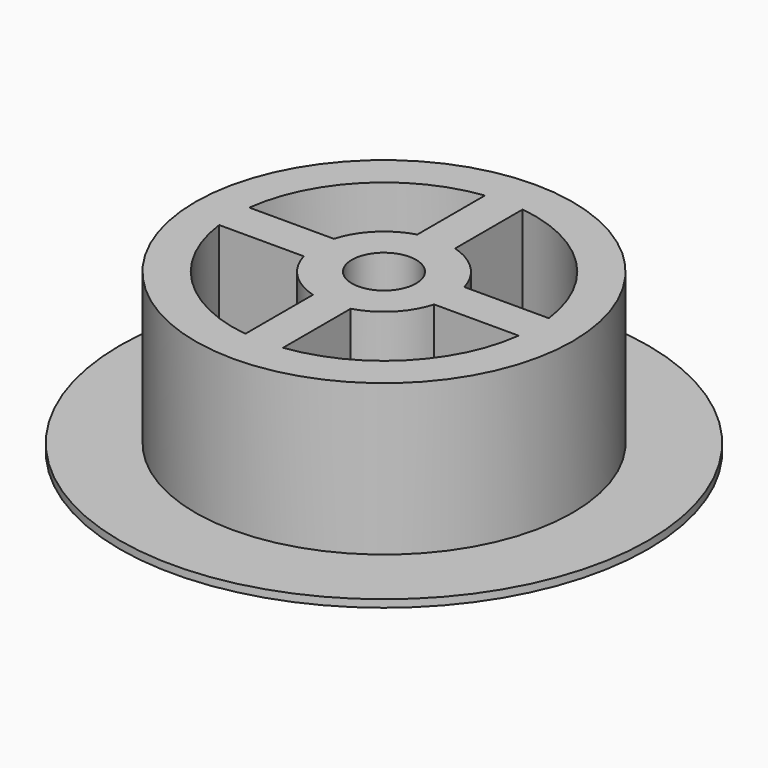
from build123d import *

# Parameters (mm, degrees)
F0_R     = 35
F1_DEPTH = 1
F2_R     = 25
F3_DEPTH = 20
F4_R     = 4.25
F5_DEPTH = 21


with BuildPart() as f1:
    # F0 (on Top) → F1 (new body)
    with BuildSketch(Plane.XY):
        Circle(F0_R)
    extrude(amount=F1_DEPTH)

    # F2 (on face) → F3 (join)
    with BuildSketch(Plane.XY.offset(1)):
        Circle(F2_R)
    extrude(amount=F3_DEPTH)

    # F4 (on face) → F5 (cut, through all)
    with BuildSketch(Plane.XY.offset(21)):
        with BuildLine():
            ThreePointArc((-19.843134833, -2.5), (-14.1421356237, -14.1421356237), (-2.5, -19.843134833))
            Line((-2.5, -19.843134833), (-2.5, -8.6458082329))
            ThreePointArc((-2.5, -8.6458082329), (-6.3639610307, -6.3639610307), (-8.6458082329, -2.5))
            Line((-8.6458082329, -2.5), (-19.843134833, -2.5))
        make_face()
        with BuildLine():
            Line((-2.5, 8.6458082329), (-2.5, 19.843134833))
            ThreePointArc((-2.5, 19.843134833), (-14.1421356237, 14.1421356237), (-19.843134833, 2.5))
            Line((-19.843134833, 2.5), (-8.6458082329, 2.5))
            ThreePointArc((-8.6458082329, 2.5), (-6.3639610307, 6.3639610307), (-2.5, 8.6458082329))
        make_face()
        with BuildLine():
            Line((8.6458082329, 2.5), (19.843134833, 2.5))
            ThreePointArc((19.843134833, 2.5), (14.1421356237, 14.1421356237), (2.5, 19.843134833))
            Line((2.5, 19.843134833), (2.5, 8.6458082329))
            ThreePointArc((2.5, 8.6458082329), (6.3639610307, 6.3639610307), (8.6458082329, 2.5))
        make_face()
        with BuildLine():
            ThreePointArc((2.5, -19.843134833), (14.1421356237, -14.1421356237), (19.843134833, -2.5))
            Line((19.843134833, -2.5), (8.6458082329, -2.5))
            ThreePointArc((8.6458082329, -2.5), (6.3639610307, -6.3639610307), (2.5, -8.6458082329))
            Line((2.5, -8.6458082329), (2.5, -19.843134833))
        make_face()
        Circle(F4_R)
    extrude(amount=-F5_DEPTH, mode=Mode.SUBTRACT)


solid = f1.part
